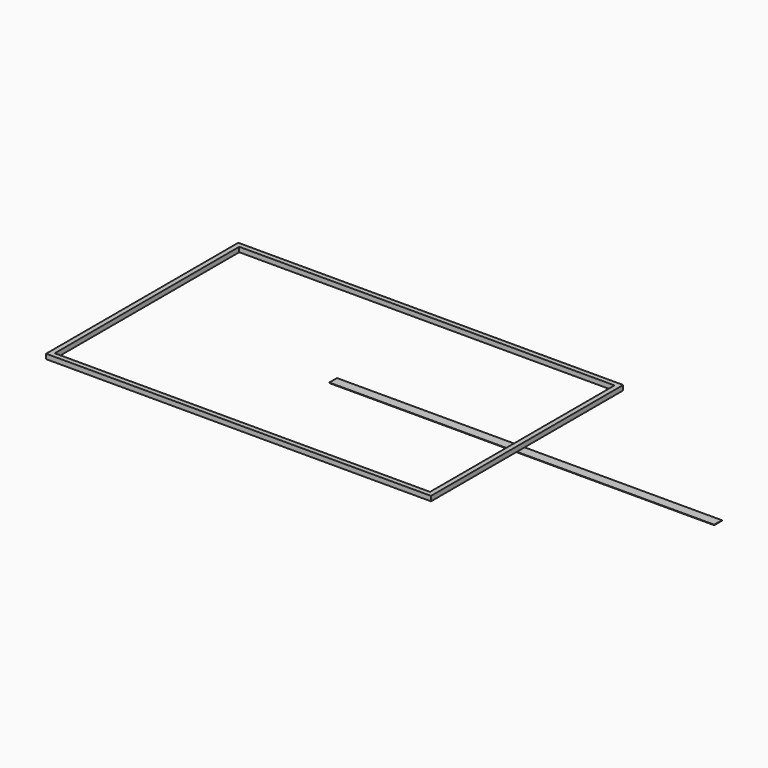
from build123d import *

# Parameters (mm, degrees)
F0_W     = 798
F0_H     = 498
F1_DEPTH = 10
F2_W     = 778
F2_H     = 478
F3_DEPTH = 10.001
F4_W     = 20
F4_H     = 1
F5_DEPTH = 798


with BuildPart() as f1:
    # F0 (on Top) → F1 (new body)
    with BuildSketch(Plane.XY):
        Rectangle(F0_W, F0_H)
    extrude(amount=F1_DEPTH)

    # F2 (on face) → F3 (cut, through all)
    with BuildSketch(Plane.XY.offset(10)):
        Rectangle(F2_W, F2_H)
    extrude(amount=-F3_DEPTH, mode=Mode.SUBTRACT)


with BuildPart() as f5:
    # F4 (on Right) → F5 (new body)
    with BuildSketch(Plane.YZ):
        with Locations((-3.915781, -8.880123)):
            Rectangle(F4_W, F4_H)
    extrude(amount=F5_DEPTH)


solid = Compound([f1.part, f5.part])
